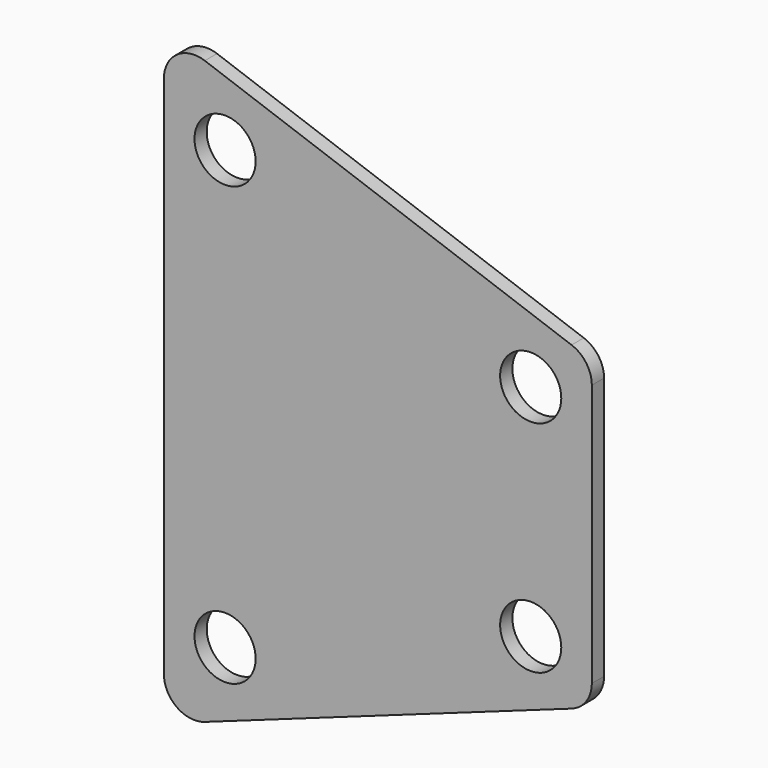
from build123d import *

# Parameters (mm, degrees)
F0_R     = 6.35
F1_DEPTH = 1.5875


with BuildPart() as f1:
    # F0 (on Front) → F1 (new body, symmetric)
    with BuildSketch(Plane.XZ):
        with BuildLine():
            Line((-44.45, 54.4893188182), (-44.45, 0))
            Line((-44.45, 0), (-44.45, -54.4893188182))
            ThreePointArc((-44.45, -54.4893188182), (-41.7579075735, -59.6799076272), (-35.9642638791, -60.4693799568))
            Line((-35.9642638791, -60.4693799568), (40.2357361209, -33.2550942425))
            ThreePointArc((40.2357361209, -33.2550942425), (43.290588809, -30.9329406774), (44.45, -27.2750331039))
            Line((44.45, -27.2750331039), (44.45, 0))
            Line((44.45, 0), (44.45, 27.2750331039))
            ThreePointArc((44.45, 27.2750331039), (43.290588809, 30.9329406774), (40.2357361209, 33.2550942425))
            Line((40.2357361209, 33.2550942425), (-35.9642638791, 60.4693799568))
            ThreePointArc((-35.9642638791, 60.4693799568), (-41.7579075735, 59.6799076272), (-44.45, 54.4893188182))
        make_face()
        with Locations((-31.75, -45.4786376364)):
            Circle(F0_R, mode=Mode.SUBTRACT)
        with Locations((31.75, -22.8000662078)):
            Circle(F0_R, mode=Mode.SUBTRACT)
        with Locations((-31.75, 45.4786376364)):
            Circle(F0_R, mode=Mode.SUBTRACT)
        with Locations((31.75, 22.8000662078)):
            Circle(F0_R, mode=Mode.SUBTRACT)
    extrude(amount=F1_DEPTH, both=True)


solid = f1.part
